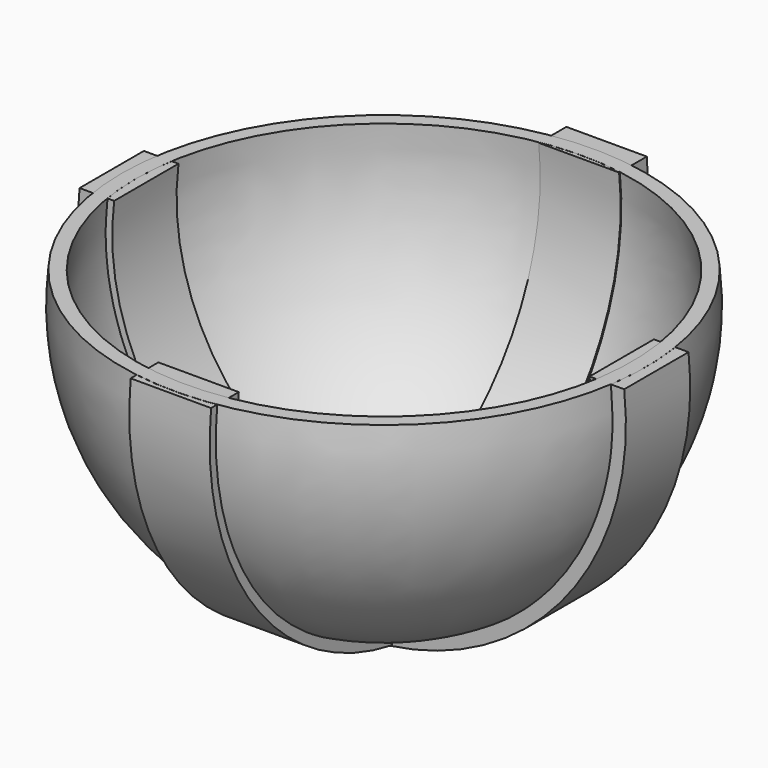
from build123d import *

# Parameters (mm, degrees)
F1_DEPTH      = 6.35
F1_DEPTH_BACK = 6.35
F3_DEPTH      = 6.35
F3_DEPTH_BACK = 6.35


with BuildPart() as f1:
    # F0 (on Front) → F1 (new body, two sides)
    with BuildSketch(Plane.XZ) as f1_sk:
        with BuildLine():
            Line((-37.538346, 48.109349), (-43.006486, 48.109349))
            ThreePointArc((-43.006486, 48.109349), (0, 0), (43.006486, 48.109349))
            Line((43.006486, 48.109349), (37.538346, 48.109349))
            ThreePointArc((37.538346, 48.109349), (0, 5.42902), (-37.538346, 48.109349))
        make_face()
    extrude(amount=F1_DEPTH)
    extrude(f1_sk.sketch, amount=-F1_DEPTH_BACK)

    # F2 (on Right) → F3 (join, two sides)
    with BuildSketch(Plane.YZ) as f3_sk:
        with BuildLine():
            Line((-36.61262, 48.099446), (-42.080759, 48.099446))
            ThreePointArc((-42.080759, 48.099446), (0.925726, -0.009902), (43.932212, 48.099446))
            Line((43.932212, 48.099446), (38.464073, 48.099446))
            ThreePointArc((38.464073, 48.099446), (0.925726, 5.419118), (-36.61262, 48.099446))
        make_face()
    extrude(amount=F3_DEPTH)
    extrude(f3_sk.sketch, amount=-F3_DEPTH_BACK)


with BuildPart() as f5:
    # F4 (on Front) → F5 (revolve)
    with BuildSketch(Plane.XZ):
        with BuildLine():
            ThreePointArc((-6.616344, 4.400514), (-31.640616, 19.739115), (-39.137512, 48.116631))
            Line((-39.137512, 48.116631), (-41.399182, 48.116631))
            ThreePointArc((-41.399182, 48.116631), (-33.359245, 18.287632), (-6.993085, 2.186844))
            Line((-6.993085, 2.186844), (0, 2.186844))
            Line((0, 2.186844), (0, 4.400514))
            Line((0, 4.400514), (-6.616344, 4.400514))
        make_face()
    revolve(axis=Axis((0, 0, 3.293679), (0, 0, -1)))


solid = Compound([f1.part, f5.part])
